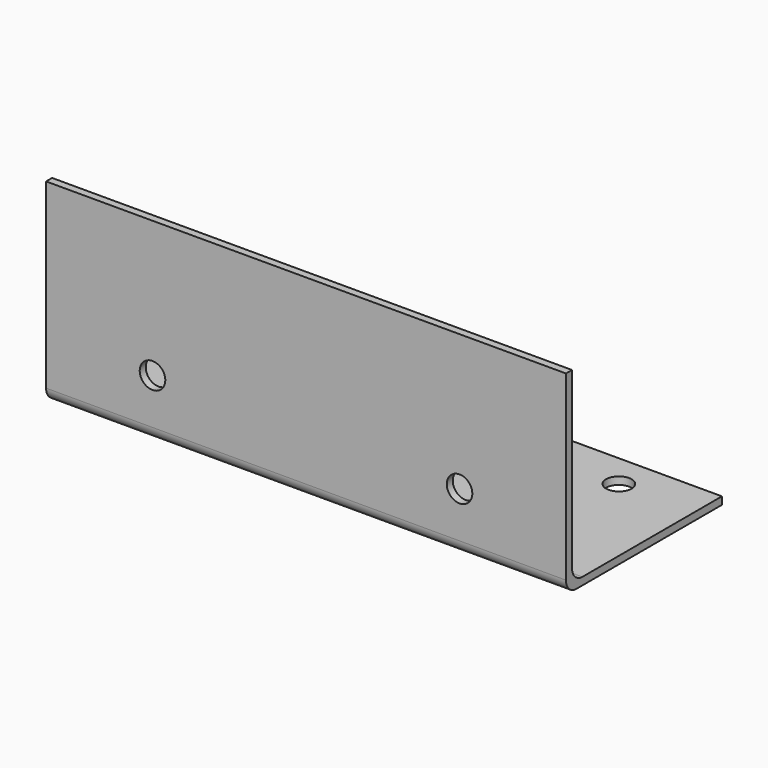
from build123d import *

# Parameters (mm, degrees)
F1_DEPTH = 50.8
F2_R     = 2.5
F3_DEPTH = 12.7
F4_R     = 2.5
F5_DEPTH = 12.7


with BuildPart() as f1:
    # F0 (on Right) → F1 (new body, symmetric)
    with BuildSketch(Plane.YZ):
        with BuildLine():
            Line((1.4732, 38.1), (0, 38.1))
            Line((0, 38.1), (0, 2.54))
            ThreePointArc((0, 2.54), (0.7439487758, 0.7439487758), (2.54, 0))
            Line((2.54, 0), (38.1, 0))
            Line((38.1, 0), (38.1, 1.4732))
            Line((38.1, 1.4732), (4.0132, 1.4732))
            ThreePointArc((4.0132, 1.4732), (2.2171487758, 2.2171487758), (1.4732, 4.0132))
            Line((1.4732, 4.0132), (1.4732, 38.1))
        make_face()
    extrude(amount=F1_DEPTH, both=True)

    # F2 (on Top) → F3 (cut, symmetric)
    with BuildSketch(Plane.XY):
        with Locations((35.9598398209, 11.4732)):
            Circle(F2_R)
        with Locations((35.9598398209, 31.4732)):
            Circle(F2_R)
        with Locations((-35.9598398209, 31.4732)):
            Circle(F2_R)
        with Locations((-35.9598398209, 11.4732)):
            Circle(F2_R)
    extrude(amount=F3_DEPTH, both=True, mode=Mode.SUBTRACT)

    # F4 (on Front) → F5 (cut, symmetric)
    with BuildSketch(Plane.XZ):
        with Locations((-30, 11.4732)):
            Circle(F4_R)
        with Locations((30, 11.4732)):
            Circle(F4_R)
    extrude(amount=F5_DEPTH, both=True, mode=Mode.SUBTRACT)


solid = f1.part
